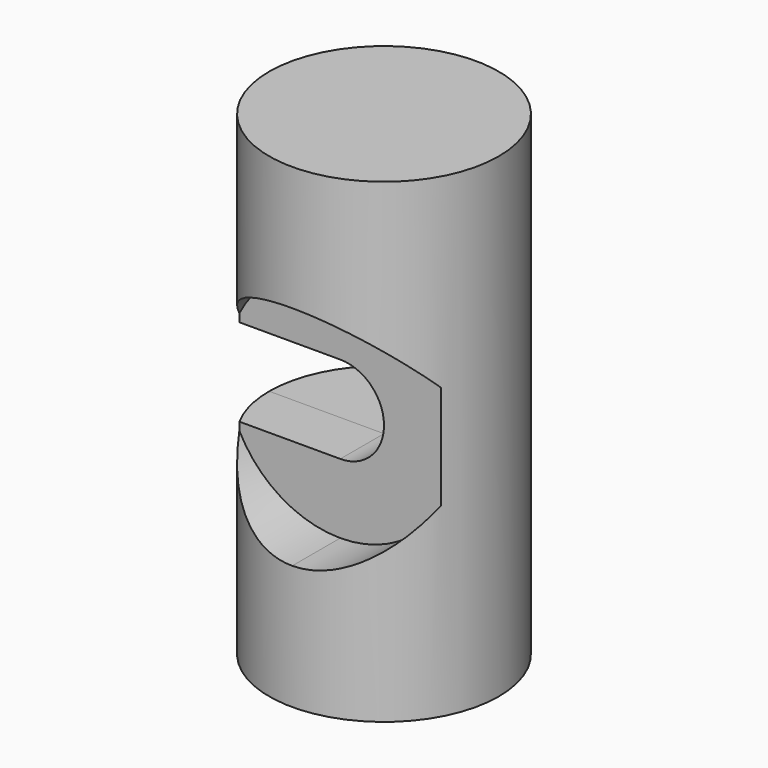
from build123d import *

# Parameters (mm, degrees)
F0_R          = 4.2
F2_DEPTH      = 8.7
F2_DEPTH_BACK = 8.7
F3_START      = 2
F3_DEPTH      = 3
F4_DEPTH      = 25
F4_DEPTH_BACK = 25


with BuildPart() as f2:
    # F0 (on Top) → F2 (new body, two sides)
    with BuildSketch(Plane.XY) as f2_sk:
        Circle(F0_R)
        Circle(F0_R)
    extrude(amount=F2_DEPTH)
    extrude(f2_sk.sketch, amount=-F2_DEPTH_BACK)

    # F1 (on Front) → F3 (cut)
    with BuildSketch(Plane.XZ.offset(F3_START)):
        with BuildLine():
            ThreePointArc((0, -4.15), (2.9344931419, -2.9344931419), (4.15, 0))
            ThreePointArc((4.15, 0), (2.9344931419, 2.9344931419), (0, 4.15))
            ThreePointArc((0, 4.15), (-2.3002717231, 3.4541641536), (-3.8291643997, 1.6))
            Line((-3.8291643997, 1.6), (0, 1.6))
            ThreePointArc((0, 1.6), (1.1313708499, 1.1313708499), (1.6, 0))
            ThreePointArc((1.6, 0), (1.1313708499, -1.1313708499), (0, -1.6))
            Line((0, -1.6), (-3.8291643997, -1.6))
            ThreePointArc((-3.8291643997, -1.6), (-2.3002717231, -3.4541641536), (0, -4.15))
        make_face()
    extrude(amount=F3_DEPTH, mode=Mode.SUBTRACT)

    # F1 (on Front) → F4 (cut, two sides)
    with BuildSketch(Plane.XZ) as f4_sk:
        with BuildLine():
            Line((0, 1.6), (-3.8291643997, 1.6))
            ThreePointArc((-3.8291643997, 1.6), (-4.0690006303, 0.8159251624), (-4.15, 0))
            ThreePointArc((-4.15, 0), (-4.0690006303, -0.8159251624), (-3.8291643997, -1.6))
            Line((-3.8291643997, -1.6), (0, -1.6))
            ThreePointArc((0, -1.6), (-1.6, 0), (0, 1.6))
        make_face()
        with BuildLine():
            ThreePointArc((1.6, 0), (1.1313708499, 1.1313708499), (0, 1.6))
            ThreePointArc((0, 1.6), (-1.6, 0), (0, -1.6))
            ThreePointArc((0, -1.6), (1.1313708499, -1.1313708499), (1.6, 0))
        make_face()
        with BuildLine():
            Line((-4.15, -1.6), (-3.8291643997, -1.6))
            ThreePointArc((-3.8291643997, -1.6), (-4.0690006303, -0.8159251624), (-4.15, 0))
            Line((-4.15, 0), (-4.15, -1.6))
        make_face()
        with BuildLine():
            ThreePointArc((-4.15, 0), (-4.0690006303, 0.8159251624), (-3.8291643997, 1.6))
            Line((-3.8291643997, 1.6), (-4.15, 1.6))
            Line((-4.15, 1.6), (-4.15, 0))
        make_face()
        Polygon((-4.15, -1.6), (-4.15, 0), (-4.15, 1.6), (-4.2, 1.6), (-4.2, -1.6), align=None)
    extrude(amount=-F4_DEPTH, mode=Mode.SUBTRACT)
    extrude(f4_sk.sketch, amount=F4_DEPTH_BACK, mode=Mode.SUBTRACT)


solid = f2.part
